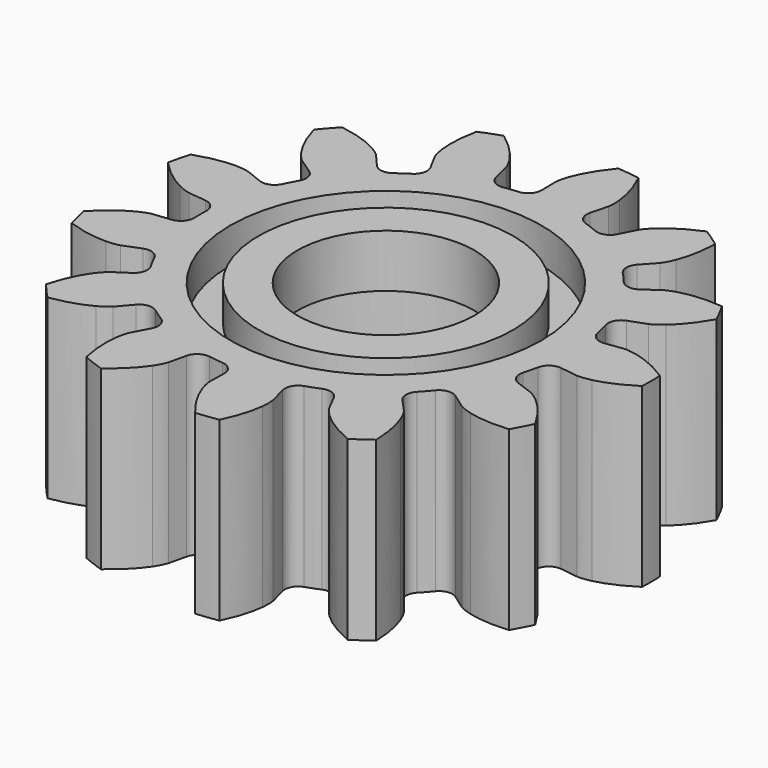
from build123d import *

# Parameters (mm, degrees)
SKETCH005_R      = 8.5
EXTRUDE005_DEPTH = 8
SKETCH006_R      = 5
EXTRUDE006_DEPTH = 5
SKETCH004_R      = 8.8
SKETCH004_R_2    = 7.2
EXTRUDE004_DEPTH = 2
EXTRUDE_DEPTH    = 10


with BuildPart() as extrude005:
    # Sketch005 → Extrude005 (new body)
    with BuildSketch(Plane(origin=(0, 0, -11), x_dir=(1, 0, 0), z_dir=(0, 0, -1))):
        Circle(SKETCH005_R)
    extrude(amount=-EXTRUDE005_DEPTH)


with BuildPart() as extrude006:
    # Sketch006 → Extrude006 (new body)
    with BuildSketch(Plane(origin=(0, 0, -4), x_dir=(1, 0, 0), z_dir=(0, 0, -1))):
        Circle(SKETCH006_R)
    extrude(amount=-EXTRUDE006_DEPTH)


with BuildPart() as fusion001:
    # Sketch004 → Extrude004 (new body)
    with BuildSketch(Plane.XY):
        Circle(SKETCH004_R)
        Circle(SKETCH004_R_2, mode=Mode.SUBTRACT)
    extrude(amount=-EXTRUDE004_DEPTH)

    # Fusion001: union Extrude005, Extrude006
    add(extrude005.part)
    add(extrude006.part)


with BuildPart() as knob2:
    # InvoluteGear → Extrude (new body)
    with BuildSketch(Plane.XY):
        with BuildLine():
            Line((11.121727, -1.518946), (12.135878, -1.655838))
            add(Edge.make_bspline(
                [(12.135878, -1.655838), (12.219946, -1.661179), (12.472459, -1.665228), (12.896247, -1.569363)],
                knots=[0, 0, 0, 0, 1, 1, 1, 1], degree=3))
            add(Edge.make_bspline(
                [(12.896247, -1.569363), (13.401185, -1.452446), (14.121598, -1.194594), (14.989263, -0.632949)],
                knots=[0, 0, 0, 0, 1, 1, 1, 1], degree=3))
            ThreePointArc((14.989263, -0.632949), (15.002623, 0), (14.989263, 0.632949))
            add(Edge.make_bspline(
                [(14.989263, 0.632949), (14.121598, 1.194594), (13.401185, 1.452446), (12.896247, 1.569363)],
                knots=[0, 0, 0, 0, 1, 1, 1, 1], degree=3))
            add(Edge.make_bspline(
                [(12.896247, 1.569363), (12.472459, 1.665228), (12.219946, 1.661179), (12.135878, 1.655838)],
                knots=[0, 0, 0, 0, 1, 1, 1, 1], degree=3))
            Line((12.135878, 1.655838), (11.121727, 1.518946))
            ThreePointArc((11.121727, 1.518946), (10.587353, 1.649583), (10.285868, 2.109722))
            ThreePointArc((10.285868, 2.109722), (10.194889, 2.512814), (10.08812, 2.912015))
            ThreePointArc((10.08812, 2.912015), (10.141235, 3.459555), (10.553689, 3.823564))
            Line((10.553689, 3.823564), (11.515293, 4.173652))
            add(Edge.make_bspline(
                [(11.515293, 4.173652), (11.592213, 4.207991), (11.817684, 4.321754), (12.148378, 4.603583)],
                knots=[0, 0, 0, 0, 1, 1, 1, 1], degree=3))
            add(Edge.make_bspline(
                [(12.148378, 4.603583), (12.541145, 4.941764), (13.05921, 5.504873), (13.566479, 6.405409)],
                knots=[0, 0, 0, 0, 1, 1, 1, 1], degree=3))
            ThreePointArc((13.566479, 6.405409), (13.284163, 6.972066), (12.978187, 7.526306))
            add(Edge.make_bspline(
                [(12.978187, 7.526306), (11.948899, 7.620394), (11.191174, 7.513918), (10.68974, 7.382786)],
                knots=[0, 0, 0, 0, 1, 1, 1, 1], degree=3))
            add(Edge.make_bspline(
                [(10.68974, 7.382786), (10.269944, 7.270727), (10.048236, 7.149793), (9.97628, 7.105995)],
                knots=[0, 0, 0, 0, 1, 1, 1, 1], degree=3))
            Line((9.97628, 7.105995), (9.14191, 6.513484))
            ThreePointArc((9.14191, 6.513484), (8.608036, 6.380822), (8.127247, 6.648147))
            ThreePointArc((8.127247, 6.648147), (7.859363, 6.962788), (7.579306, 7.266644))
            ThreePointArc((7.579306, 7.266644), (7.371882, 7.776151), (7.567929, 8.290142))
            Line((7.567929, 8.290142), (8.256692, 9.047009))
            add(Edge.make_bspline(
                [(8.256692, 9.047009), (8.308844, 9.113161), (8.45562, 9.318675), (8.617463, 9.721903)],
                knots=[0, 0, 0, 0, 1, 1, 1, 1], degree=3))
            add(Edge.make_bspline(
                [(8.617463, 9.721903), (8.80808, 10.203875), (9.005114, 10.943241), (9.035779, 11.976365)],
                knots=[0, 0, 0, 0, 1, 1, 1, 1], degree=3))
            ThreePointArc((9.035779, 11.976365), (8.522461, 12.346916), (7.993965, 12.695477))
            add(Edge.make_bspline(
                [(7.993965, 12.695477), (7.03885, 12.300454), (6.417401, 11.854042), (6.034343, 11.504902)],
                knots=[0, 0, 0, 0, 1, 1, 1, 1], degree=3))
            add(Edge.make_bspline(
                [(6.034343, 11.504902), (5.714708, 11.21059), (5.574597, 11.000475), (5.531236, 10.928255)],
                knots=[0, 0, 0, 0, 1, 1, 1, 1], degree=3))
            Line((5.531236, 10.928255), (5.067793, 10.015861))
            ThreePointArc((5.067793, 10.015861), (4.656722, 9.650291), (4.106771, 9.663562))
            ThreePointArc((4.106771, 9.663562), (3.723351, 9.817671), (3.334164, 9.956573))
            ThreePointArc((3.334164, 9.956573), (2.91372, 10.311324), (2.848447, 10.857548))
            Line((2.848447, 10.857548), (3.106584, 11.847805))
            add(Edge.make_bspline(
                [(3.106584, 11.847805), (3.122019, 11.930615), (3.156476, 12.180799), (3.112391, 12.613053)],
                knots=[0, 0, 0, 0, 1, 1, 1, 1], degree=3))
            add(Edge.make_bspline(
                [(3.112391, 12.613053), (3.05719, 13.128402), (2.888055, 13.874643), (2.43509, 14.80368)],
                knots=[0, 0, 0, 0, 1, 1, 1, 1], degree=3))
            ThreePointArc((2.43509, 14.80368), (1.808366, 14.893237), (1.178422, 14.956268))
            add(Edge.make_bspline(
                [(1.178422, 14.956268), (0.516286, 14.162628), (0.173478, 13.478548), (-0.003449, 12.991384)],
                knots=[0, 0, 0, 0, 1, 1, 1, 1], degree=3))
            add(Edge.make_bspline(
                [(-0.003449, 12.991384), (-0.149698, 12.582242), (-0.176115, 12.331081), (-0.180947, 12.246983)],
                knots=[0, 0, 0, 0, 1, 1, 1, 1], degree=3))
            Line((-0.180947, 12.246983), (-0.167295, 11.223725))
            ThreePointArc((-0.167295, 11.223725), (-0.361392, 10.708995), (-0.854516, 10.465171))
            ThreePointArc((-0.854516, 10.465171), (-1.265635, 10.423443), (-1.674794, 10.365571))
            ThreePointArc((-1.674794, 10.365571), (-2.21194, 10.484297), (-2.523579, 10.937621))
            Line((-2.523579, 10.937621), (-2.755206, 11.934411))
            add(Edge.make_bspline(
                [(-2.755206, 11.934411), (-2.780023, 12.01491), (-2.865779, 12.25245), (-3.105693, 12.614704)],
                knots=[0, 0, 0, 0, 1, 1, 1, 1], degree=3))
            add(Edge.make_bspline(
                [(-3.105693, 12.614704), (-3.394065, 13.04537), (-3.890623, 13.627532), (-4.723448, 14.239651)],
                knots=[0, 0, 0, 0, 1, 1, 1, 1], degree=3))
            ThreePointArc((-4.723448, 14.239651), (-5.320003, 14.027696), (-5.907084, 13.790757))
            add(Edge.make_bspline(
                [(-5.907084, 13.790757), (-6.124552, 12.780315), (-6.110186, 12.015281), (-6.040452, 11.501697)],
                knots=[0, 0, 0, 0, 1, 1, 1, 1], degree=3))
            add(Edge.make_bspline(
                [(-6.040452, 11.501697), (-5.97981, 11.071453), (-5.886482, 10.836785), (-5.851677, 10.760075)],
                knots=[0, 0, 0, 0, 1, 1, 1, 1], degree=3))
            Line((-5.851677, 10.760075), (-5.364058, 9.860369))
            ThreePointArc((-5.364058, 9.860369), (-5.296714, 9.314397), (-5.620043, 8.869335))
            ThreePointArc((-5.620043, 8.869335), (-5.96468, 8.641331), (-6.300078, 8.399942))
            ThreePointArc((-6.300078, 8.399942), (-6.830871, 8.255444), (-7.317484, 8.512016))
            Line((-7.317484, 8.512016), (-7.985811, 9.286988))
            add(Edge.make_bspline(
                [(-7.985811, 9.286988), (-8.045195, 9.346733), (-8.231519, 9.517211), (-8.612299, 9.726478)],
                knots=[0, 0, 0, 0, 1, 1, 1, 1], degree=3))
            add(Edge.make_bspline(
                [(-8.612299, 9.726478), (-9.067781, 9.973801), (-9.778006, 10.258518), (-10.799901, 10.413489)],
                knots=[0, 0, 0, 0, 1, 1, 1, 1], degree=3))
            ThreePointArc((-10.799901, 10.413489), (-11.229624, 9.948579), (-11.639347, 9.46595))
            add(Edge.make_bspline(
                [(-11.639347, 9.46595), (-11.36233, 8.470185), (-10.994081, 7.799458), (-10.693659, 7.377109)],
                knots=[0, 0, 0, 0, 1, 1, 1, 1], degree=3))
            add(Edge.make_bspline(
                [(-10.693659, 7.377109), (-10.44002, 7.024329), (-10.248326, 6.859913), (-10.181859, 6.808163)],
                knots=[0, 0, 0, 0, 1, 1, 1, 1], degree=3))
            Line((-10.181859, 6.808163), (-9.331979, 6.238122))
            ThreePointArc((-9.331979, 6.238122), (-9.018624, 5.785983), (-9.098087, 5.241642))
            ThreePointArc((-9.098087, 5.241642), (-9.297288, 4.879593), (-9.482089, 4.509987))
            ThreePointArc((-9.482089, 4.509987), (-9.884933, 4.135369), (-10.435042, 4.136412))
            Line((-10.435042, 4.136412), (-11.386963, 4.512028))
            add(Edge.make_bspline(
                [(-11.386963, 4.512028), (-11.46731, 4.537332), (-11.711517, 4.601694), (-12.145932, 4.610034)],
                knots=[0, 0, 0, 0, 1, 1, 1, 1], degree=3))
            add(Edge.make_bspline(
                [(-12.145932, 4.610034), (-12.664177, 4.617354), (-13.425365, 4.539401), (-14.402227, 4.201722)],
                knots=[0, 0, 0, 0, 1, 1, 1, 1], degree=3))
            ThreePointArc((-14.402227, 4.201722), (-14.566674, 3.590363), (-14.705177, 2.972608))
            add(Edge.make_bspline(
                [(-14.705177, 2.972608), (-13.997135, 2.219638), (-13.359364, 1.796873), (-12.897078, 1.562514)],
                knots=[0, 0, 0, 0, 1, 1, 1, 1], degree=3))
            add(Edge.make_bspline(
                [(-12.897078, 1.562514), (-12.508547, 1.368015), (-12.262402, 1.311516), (-12.179499, 1.296583)],
                knots=[0, 0, 0, 0, 1, 1, 1, 1], degree=3))
            Line((-12.179499, 1.296583), (-11.162057, 1.186795))
            ThreePointArc((-11.162057, 1.186795), (-10.674475, 0.93207), (-10.491869, 0.413152))
            ThreePointArc((-10.491869, 0.413152), (-10.5, 0), (-10.491869, -0.413152))
            ThreePointArc((-10.491869, -0.413152), (-10.674475, -0.93207), (-11.162057, -1.186795))
            Line((-11.162057, -1.186795), (-12.179499, -1.296583))
            add(Edge.make_bspline(
                [(-12.179499, -1.296583), (-12.262402, -1.311516), (-12.508547, -1.368015), (-12.897078, -1.562514)],
                knots=[0, 0, 0, 0, 1, 1, 1, 1], degree=3))
            add(Edge.make_bspline(
                [(-12.897078, -1.562514), (-13.359364, -1.796873), (-13.997135, -2.219638), (-14.705177, -2.972608)],
                knots=[0, 0, 0, 0, 1, 1, 1, 1], degree=3))
            ThreePointArc((-14.705177, -2.972608), (-14.566674, -3.590363), (-14.402227, -4.201722))
            add(Edge.make_bspline(
                [(-14.402227, -4.201722), (-13.425365, -4.539401), (-12.664177, -4.617354), (-12.145932, -4.610034)],
                knots=[0, 0, 0, 0, 1, 1, 1, 1], degree=3))
            add(Edge.make_bspline(
                [(-12.145932, -4.610034), (-11.711517, -4.601694), (-11.46731, -4.537332), (-11.386963, -4.512028)],
                knots=[0, 0, 0, 0, 1, 1, 1, 1], degree=3))
            Line((-11.386963, -4.512028), (-10.435042, -4.136412))
            ThreePointArc((-10.435042, -4.136412), (-9.884933, -4.135369), (-9.482089, -4.509987))
            ThreePointArc((-9.482089, -4.509987), (-9.297288, -4.879593), (-9.098087, -5.241642))
            ThreePointArc((-9.098087, -5.241642), (-9.018624, -5.785983), (-9.331979, -6.238122))
            Line((-9.331979, -6.238122), (-10.181859, -6.808163))
            add(Edge.make_bspline(
                [(-10.181859, -6.808163), (-10.248326, -6.859913), (-10.44002, -7.024329), (-10.693659, -7.377109)],
                knots=[0, 0, 0, 0, 1, 1, 1, 1], degree=3))
            add(Edge.make_bspline(
                [(-10.693659, -7.377109), (-10.994081, -7.799458), (-11.36233, -8.470185), (-11.639347, -9.46595)],
                knots=[0, 0, 0, 0, 1, 1, 1, 1], degree=3))
            ThreePointArc((-11.639347, -9.46595), (-11.229624, -9.948579), (-10.799901, -10.413489))
            add(Edge.make_bspline(
                [(-10.799901, -10.413489), (-9.778006, -10.258518), (-9.067781, -9.973801), (-8.612299, -9.726478)],
                knots=[0, 0, 0, 0, 1, 1, 1, 1], degree=3))
            add(Edge.make_bspline(
                [(-8.612299, -9.726478), (-8.231519, -9.517211), (-8.045195, -9.346733), (-7.985811, -9.286988)],
                knots=[0, 0, 0, 0, 1, 1, 1, 1], degree=3))
            Line((-7.985811, -9.286988), (-7.317484, -8.512016))
            ThreePointArc((-7.317484, -8.512016), (-6.830871, -8.255444), (-6.300078, -8.399942))
            ThreePointArc((-6.300078, -8.399942), (-5.96468, -8.641331), (-5.620043, -8.869335))
            ThreePointArc((-5.620043, -8.869335), (-5.296714, -9.314397), (-5.364058, -9.860369))
            Line((-5.364058, -9.860369), (-5.851677, -10.760075))
            add(Edge.make_bspline(
                [(-5.851677, -10.760075), (-5.886482, -10.836785), (-5.97981, -11.071453), (-6.040452, -11.501697)],
                knots=[0, 0, 0, 0, 1, 1, 1, 1], degree=3))
            add(Edge.make_bspline(
                [(-6.040452, -11.501697), (-6.110186, -12.015281), (-6.124552, -12.780315), (-5.907084, -13.790757)],
                knots=[0, 0, 0, 0, 1, 1, 1, 1], degree=3))
            ThreePointArc((-5.907084, -13.790757), (-5.320003, -14.027696), (-4.723448, -14.239651))
            add(Edge.make_bspline(
                [(-4.723448, -14.239651), (-3.890623, -13.627532), (-3.394065, -13.04537), (-3.105693, -12.614704)],
                knots=[0, 0, 0, 0, 1, 1, 1, 1], degree=3))
            add(Edge.make_bspline(
                [(-3.105693, -12.614704), (-2.865779, -12.25245), (-2.780023, -12.01491), (-2.755206, -11.934411)],
                knots=[0, 0, 0, 0, 1, 1, 1, 1], degree=3))
            Line((-2.755206, -11.934411), (-2.523579, -10.937621))
            ThreePointArc((-2.523579, -10.937621), (-2.21194, -10.484297), (-1.674794, -10.365571))
            ThreePointArc((-1.674794, -10.365571), (-1.265635, -10.423443), (-0.854516, -10.465171))
            ThreePointArc((-0.854516, -10.465171), (-0.361392, -10.708995), (-0.167295, -11.223725))
            Line((-0.167295, -11.223725), (-0.180947, -12.246983))
            add(Edge.make_bspline(
                [(-0.180947, -12.246983), (-0.176115, -12.331081), (-0.149698, -12.582242), (-0.003449, -12.991384)],
                knots=[0, 0, 0, 0, 1, 1, 1, 1], degree=3))
            add(Edge.make_bspline(
                [(-0.003449, -12.991384), (0.173478, -13.478548), (0.516286, -14.162628), (1.178422, -14.956268)],
                knots=[0, 0, 0, 0, 1, 1, 1, 1], degree=3))
            ThreePointArc((1.178422, -14.956268), (1.808366, -14.893237), (2.43509, -14.80368))
            add(Edge.make_bspline(
                [(2.43509, -14.80368), (2.888055, -13.874643), (3.05719, -13.128402), (3.112391, -12.613053)],
                knots=[0, 0, 0, 0, 1, 1, 1, 1], degree=3))
            add(Edge.make_bspline(
                [(3.112391, -12.613053), (3.156476, -12.180799), (3.122019, -11.930615), (3.106584, -11.847805)],
                knots=[0, 0, 0, 0, 1, 1, 1, 1], degree=3))
            Line((3.106584, -11.847805), (2.848447, -10.857548))
            ThreePointArc((2.848447, -10.857548), (2.91372, -10.311324), (3.334164, -9.956573))
            ThreePointArc((3.334164, -9.956573), (3.723351, -9.817671), (4.106771, -9.663562))
            ThreePointArc((4.106771, -9.663562), (4.656722, -9.650291), (5.067793, -10.015861))
            Line((5.067793, -10.015861), (5.531236, -10.928255))
            add(Edge.make_bspline(
                [(5.531236, -10.928255), (5.574597, -11.000475), (5.714708, -11.21059), (6.034343, -11.504902)],
                knots=[0, 0, 0, 0, 1, 1, 1, 1], degree=3))
            add(Edge.make_bspline(
                [(6.034343, -11.504902), (6.417401, -11.854042), (7.03885, -12.300454), (7.993965, -12.695477)],
                knots=[0, 0, 0, 0, 1, 1, 1, 1], degree=3))
            ThreePointArc((7.993965, -12.695477), (8.522461, -12.346916), (9.035779, -11.976365))
            add(Edge.make_bspline(
                [(9.035779, -11.976365), (9.005114, -10.943241), (8.80808, -10.203875), (8.617463, -9.721903)],
                knots=[0, 0, 0, 0, 1, 1, 1, 1], degree=3))
            add(Edge.make_bspline(
                [(8.617463, -9.721903), (8.45562, -9.318675), (8.308844, -9.113161), (8.256692, -9.047009)],
                knots=[0, 0, 0, 0, 1, 1, 1, 1], degree=3))
            Line((8.256692, -9.047009), (7.567929, -8.290142))
            ThreePointArc((7.567929, -8.290142), (7.371882, -7.776151), (7.579306, -7.266644))
            ThreePointArc((7.579306, -7.266644), (7.859363, -6.962788), (8.127247, -6.648147))
            ThreePointArc((8.127247, -6.648147), (8.608036, -6.380822), (9.14191, -6.513484))
            Line((9.14191, -6.513484), (9.97628, -7.105995))
            add(Edge.make_bspline(
                [(9.97628, -7.105995), (10.048236, -7.149793), (10.269944, -7.270727), (10.68974, -7.382786)],
                knots=[0, 0, 0, 0, 1, 1, 1, 1], degree=3))
            add(Edge.make_bspline(
                [(10.68974, -7.382786), (11.191174, -7.513918), (11.948899, -7.620394), (12.978187, -7.526306)],
                knots=[0, 0, 0, 0, 1, 1, 1, 1], degree=3))
            ThreePointArc((12.978187, -7.526306), (13.284163, -6.972066), (13.566479, -6.405409))
            add(Edge.make_bspline(
                [(13.566479, -6.405409), (13.05921, -5.504873), (12.541145, -4.941764), (12.148378, -4.603583)],
                knots=[0, 0, 0, 0, 1, 1, 1, 1], degree=3))
            add(Edge.make_bspline(
                [(12.148378, -4.603583), (11.817684, -4.321754), (11.592213, -4.207991), (11.515293, -4.173652)],
                knots=[0, 0, 0, 0, 1, 1, 1, 1], degree=3))
            Line((11.515293, -4.173652), (10.553689, -3.823564))
            ThreePointArc((10.553689, -3.823564), (10.141235, -3.459555), (10.08812, -2.912015))
            ThreePointArc((10.08812, -2.912015), (10.194889, -2.512814), (10.285868, -2.109722))
            ThreePointArc((10.285868, -2.109722), (10.587353, -1.649583), (11.121727, -1.518946))
        make_face()
    extrude(amount=EXTRUDE_DEPTH)


with BuildPart() as knob2_1:
    # Extrude placement: moved
    add(knob2.part.moved(Location((0, 0, -10))))

    # Cut001: cut Fusion001
    add(fusion001.part, mode=Mode.SUBTRACT)


solid = knob2_1.part
